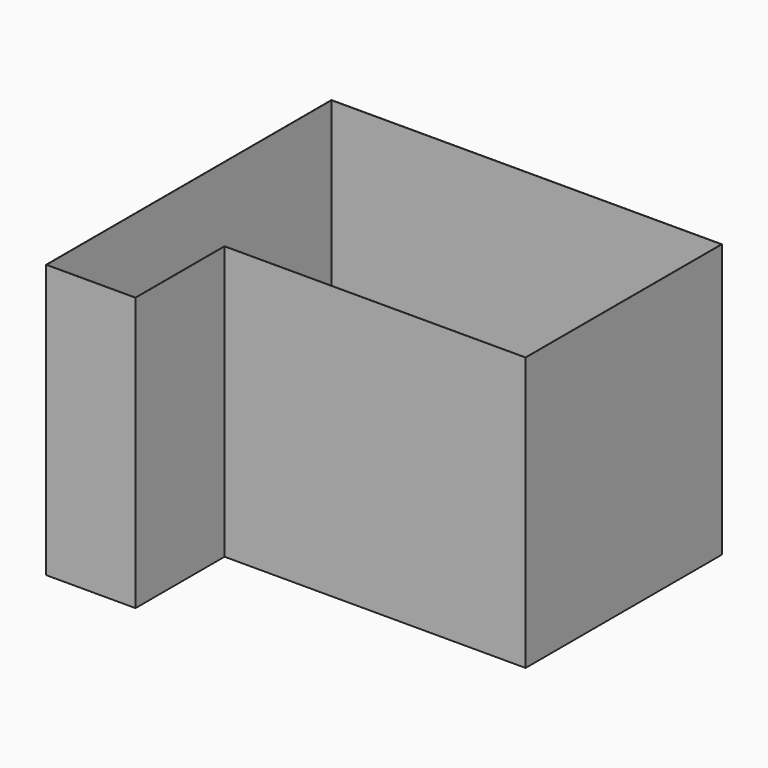
from build123d import *

# Parameters (mm, degrees)
F1_DEPTH = 2750
F2_T     = -2.5


with BuildPart() as f1:
    # F0 (on Top) → F1 (new body)
    with BuildSketch(Plane.XY):
        Polygon((0, 3590), (0, 0), (900, 0), (900, 1120), (3930, 1120), (3930, 3590), align=None)
    extrude(amount=F1_DEPTH)

    # F2
    f2_openings = [f1.faces().sort_by_distance(p)[0] for p in [
        (1822.479632, 2186.139233, 2750),
    ]]
    offset(amount=F2_T, openings=f2_openings, kind=Kind.INTERSECTION)


solid = f1.part
